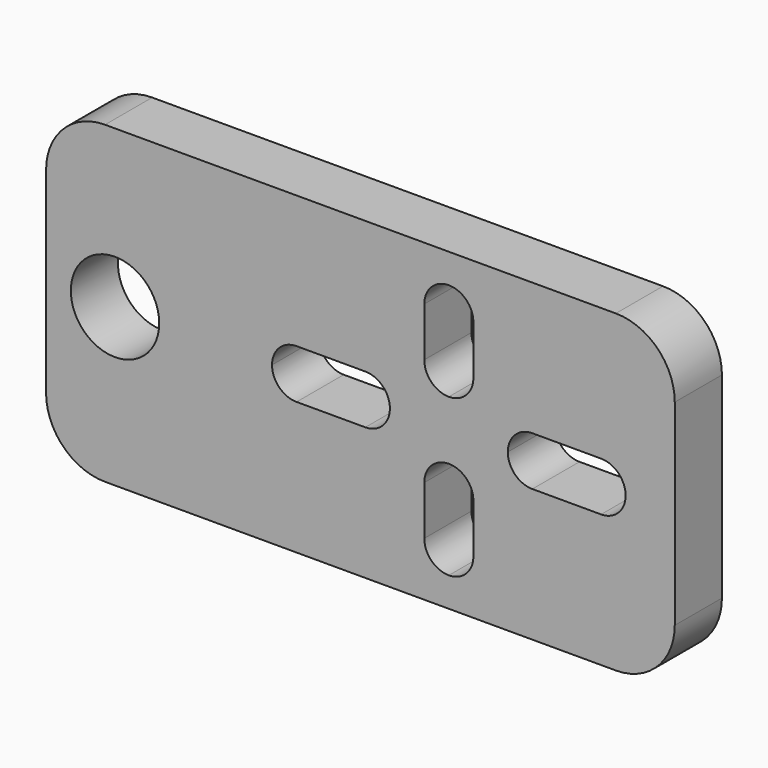
from build123d import *

# Parameters (mm, degrees)
F0_W     = 32
F0_H     = 16
F0_R     = 2.25
F1_DEPTH = 3
F2_R     = 3


with BuildPart() as f1:
    # F0 (on Front) → F1 (new body)
    with BuildSketch(Plane.XZ):
        with Locations((16, 8)):
            Rectangle(F0_W, F0_H)
        with BuildLine():
            Line((19.25, 2.75), (19.25, 5.25))
            ThreePointArc((19.25, 5.25), (19.616117, 6.133883), (20.5, 6.5))
            ThreePointArc((20.5, 6.5), (21.383883, 6.133883), (21.75, 5.25))
            Line((21.75, 5.25), (21.75, 2.75))
            ThreePointArc((21.75, 2.75), (21.383883, 1.866117), (20.5, 1.5))
            ThreePointArc((20.5, 1.5), (19.616117, 1.866117), (19.25, 2.75))
        make_face(mode=Mode.SUBTRACT)
        with BuildLine():
            ThreePointArc((23.5, 8), (23.866117, 8.883883), (24.75, 9.25))
            Line((24.75, 9.25), (28.25, 9.25))
            ThreePointArc((28.25, 9.25), (29.133883, 8.883883), (29.5, 8))
            ThreePointArc((29.5, 8), (29.133883, 7.116117), (28.25, 6.75))
            Line((28.25, 6.75), (24.75, 6.75))
            ThreePointArc((24.75, 6.75), (23.866117, 7.116117), (23.5, 8))
        make_face(mode=Mode.SUBTRACT)
        with Locations((3.508822, 8)):
            Circle(F0_R, mode=Mode.SUBTRACT)
        with BuildLine():
            ThreePointArc((11.5, 8), (11.866117, 8.883883), (12.75, 9.25))
            Line((12.75, 9.25), (16.25, 9.25))
            ThreePointArc((16.25, 9.25), (17.133883, 8.883883), (17.5, 8))
            ThreePointArc((17.5, 8), (17.133883, 7.116117), (16.25, 6.75))
            Line((16.25, 6.75), (12.75, 6.75))
            ThreePointArc((12.75, 6.75), (11.866117, 7.116117), (11.5, 8))
        make_face(mode=Mode.SUBTRACT)
        with BuildLine():
            Line((19.25, 10.75), (19.25, 13.25))
            ThreePointArc((19.25, 13.25), (19.616117, 14.133883), (20.5, 14.5))
            ThreePointArc((20.5, 14.5), (21.383883, 14.133883), (21.75, 13.25))
            Line((21.75, 13.25), (21.75, 10.75))
            ThreePointArc((21.75, 10.75), (21.383883, 9.866117), (20.5, 9.5))
            ThreePointArc((20.5, 9.5), (19.616117, 9.866117), (19.25, 10.75))
        make_face(mode=Mode.SUBTRACT)
    extrude(amount=F1_DEPTH)

    # F2
    f2_edges = [f1.edges().sort_by_distance(p)[0] for p in [
        (32, -1.5, 0),
        (32, -1.5, 16),
        (0, -1.5, 0),
        (0, -1.5, 16),
    ]]
    fillet(f2_edges, radius=F2_R)


solid = f1.part
